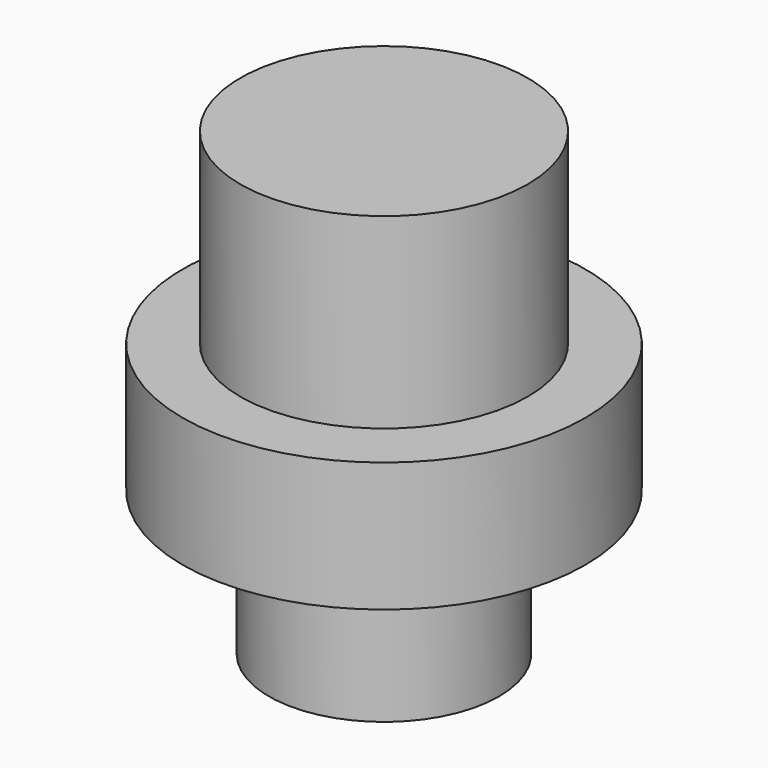
from build123d import *

# Parameters (mm, degrees)
CYLINDER001_R     = 7
CYLINDER001_DEPTH = 4.5
CYLINDER002_R     = 4
CYLINDER002_DEPTH = 5
CYLINDER_R        = 5
CYLINDER_DEPTH    = 6.5


with BuildPart() as cylinder:
    # Cylinder001 → Cylinder001 (new body)
    with BuildSketch(Plane.XY.offset(-4.5)):
        Circle(CYLINDER001_R)
    extrude(amount=CYLINDER001_DEPTH)


with BuildPart() as cylinder001:
    # Cylinder002 → Cylinder002 (new body)
    with BuildSketch(Plane.XY.offset(-9.5)):
        Circle(CYLINDER002_R)
    extrude(amount=CYLINDER002_DEPTH)


with BuildPart() as fusion:
    # Cylinder → Cylinder (new body)
    with BuildSketch(Plane.XY):
        Circle(CYLINDER_R)
    extrude(amount=CYLINDER_DEPTH)

    # Fusion: union Cylinder, Cylinder001
    add(cylinder.part)
    add(cylinder001.part)


solid = fusion.part
